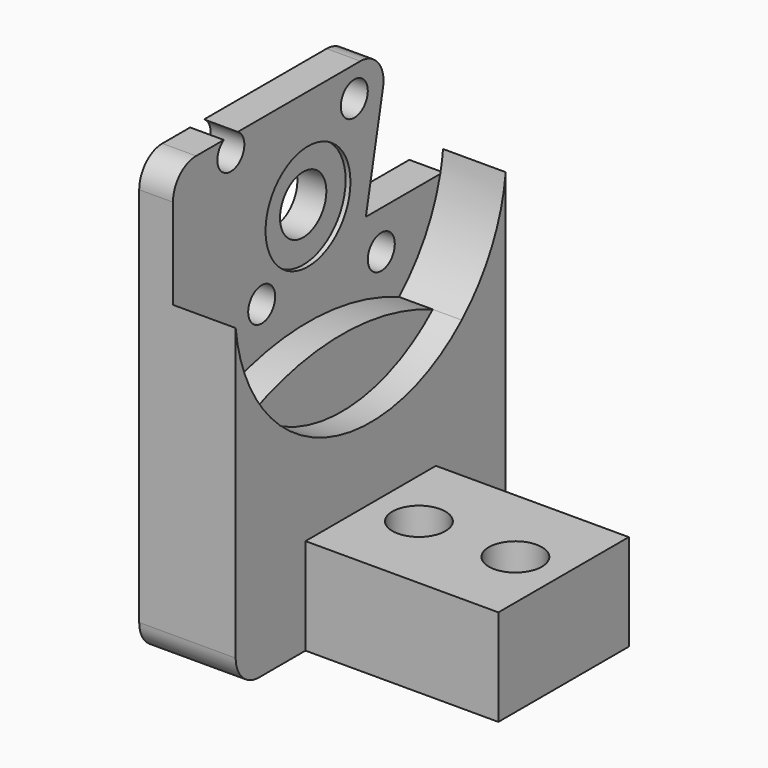
from build123d import *

# Parameters (mm, degrees)
F0_W      = 20
F0_H      = 16.9
F0_R      = 1.6
F1_DEPTH  = 10
F2_R      = 2.75
F3_DEPTH  = 5
F4_W      = 35
F4_H      = 45.5
F5_DEPTH  = 10
F6_R      = 3
F7_DEPTH  = 10
F8_R      = 3
F9_DEPTH  = 6.5
F10_R     = 1.75
F11_DEPTH = 10.001
F13_DEPTH = 3.501
F14_R     = 17.6
F15_DEPTH = 3
F16_R     = 3
F17_R     = 5.5
F18_DEPTH = 0.5


with BuildPart() as f1:
    # F0 (on Top) → F1 (new body)
    with BuildSketch(Plane.XY):
        Rectangle(F0_W, F0_H)
        with Locations((-5, 0)):
            Circle(F0_R, mode=Mode.SUBTRACT)
        with Locations((5, 0)):
            Circle(F0_R, mode=Mode.SUBTRACT)
    extrude(amount=-F1_DEPTH)

    # F2 (on face) → F3 (cut)
    with BuildSketch(Plane.XY):
        with Locations((-5, 0)):
            Circle(F2_R)
        with Locations((5, 0)):
            Circle(F2_R)
    extrude(amount=-F3_DEPTH, mode=Mode.SUBTRACT)

    # F4 (on face) → F5 (join)
    with BuildSketch(Plane(origin=(-10, 0, 0), x_dir=(0, -1, 0), z_dir=(-1, 0, 0))):
        with Locations((0, 12.75)):
            Rectangle(F4_W, F4_H)
    extrude(amount=F5_DEPTH)

    # F6 (on face) → F7 (cut, through all)
    with BuildSketch(Plane(origin=(-20, 0, 0), x_dir=(0, -1, 0), z_dir=(-1, 0, 0))):
        with Locations((0, 25)):
            Circle(F6_R)
    extrude(amount=-F7_DEPTH, mode=Mode.SUBTRACT)

    # F8 (on face) → F9 (cut)
    with BuildSketch(Plane.YZ.offset(-10)):
        with BuildLine():
            ThreePointArc((-11.7993208208, 11.9410556258), (0, 14.45), (11.7993208208, 11.9410556258))
            ThreePointArc((11.7993208208, 11.9410556258), (15.6809149912, 17.0081976351), (17.5, 23.1265006005))
            Line((17.5, 23.1265006005), (17.5, 35.5))
            Line((17.5, 35.5), (-17.5, 35.5))
            Line((-17.5, 35.5), (-17.5, 23.1265006005))
            ThreePointArc((-17.5, 23.1265006005), (-15.6809149912, 17.0081976351), (-11.7993208208, 11.9410556258))
        make_face()
        with Locations((0, 25)):
            Circle(F8_R, mode=Mode.SUBTRACT)
    extrude(amount=-F9_DEPTH, mode=Mode.SUBTRACT)

    # F10 (on face) → F11 (cut, through all)
    with BuildSketch(Plane.YZ.offset(-10)):
        with Locations((6, 32.4)):
            Circle(F10_R)
        with Locations((9.5, 17)):
            Circle(F10_R)
        with Locations((-6, 18.5)):
            Circle(F10_R)
        with Locations((-10, 34)):
            Circle(F10_R)
    extrude(amount=-F11_DEPTH, mode=Mode.SUBTRACT)

    # F12 (on face) → F13 (cut, through all)
    with BuildSketch(Plane.YZ.offset(-16.5)):
        Polygon((7.5, 21), (17.5, 21), (17.5, 35.5), (10.4602255331, 35.5), align=None)
    extrude(amount=-F13_DEPTH, mode=Mode.SUBTRACT)

    # F14 (on face) → F15 (cut)
    with BuildSketch(Plane.YZ.offset(-10)):
        with Locations((0, 25)):
            Circle(F14_R)
    extrude(amount=-F15_DEPTH, mode=Mode.SUBTRACT)

    # F16
    f16_edges = [f1.edges().sort_by_distance(p)[0] for p in [
        (-18.25, 10.460226, 35.5),
        (-18.25, -17.5, 35.5),
        (-15, -17.5, -10),
        (-15, 17.5, -10),
    ]]
    fillet(f16_edges, radius=F16_R)

    # F17 (on face) → F18 (cut)
    with BuildSketch(Plane.YZ.offset(-16.5)):
        with Locations((0, 25)):
            Circle(F17_R)
    extrude(amount=-F18_DEPTH, mode=Mode.SUBTRACT)


solid = f1.part
